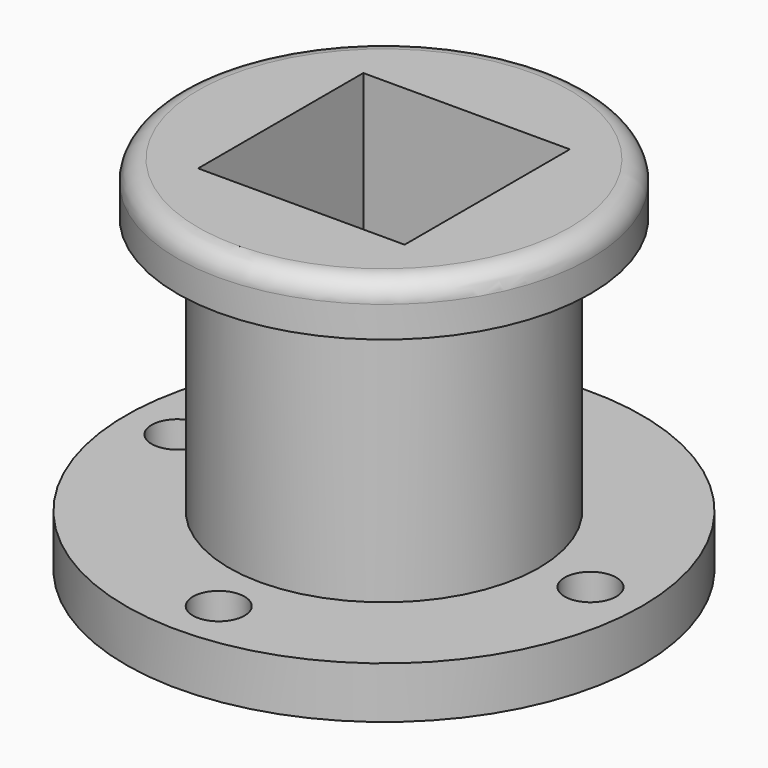
from build123d import *

# Parameters (mm, degrees)
F0_R      = 38.1
F1_DEPTH  = 63.5
F2_R      = 63.5
F3_DEPTH  = 12.7
F4_R      = 6.35
F5_DEPTH  = 25.4
F6_R      = 50.8
F7_DEPTH  = 12.7
F8_R      = 5.08
F9_W      = 50.8
F9_H      = 50.8
F10_DEPTH = 132.842


with BuildPart() as f1:
    # F0 (on Top) → F1 (new body)
    with BuildSketch(Plane.XY):
        Circle(F0_R)
    extrude(amount=F1_DEPTH)

    # F2 (on Top) → F3 (join)
    with BuildSketch(Plane.XY):
        Circle(F2_R)
    extrude(amount=-F3_DEPTH)

    # F4 (on face) → F5 (cut)
    with BuildSketch(Plane.XY):
        with Locations((-50.8, 0)):
            Circle(F4_R)
        with Locations((0, 50.8)):
            Circle(F4_R)
        with Locations((50.8, 0)):
            Circle(F4_R)
        with Locations((0, -50.8)):
            Circle(F4_R)
    extrude(amount=-F5_DEPTH, mode=Mode.SUBTRACT)

    # F6 (on face) → F7 (join)
    with BuildSketch(Plane.XY.offset(63.5)):
        Circle(F6_R)
    extrude(amount=F7_DEPTH)

    # F8
    f8_edges = [f1.edges().sort_by_distance(p)[0] for p in [
        (-50.8, 0, 76.2),
    ]]
    fillet(f8_edges, radius=F8_R)

    # F9 (on face) → F10 (cut)
    with BuildSketch(Plane.XY.offset(76.2)):
        Rectangle(F9_W, F9_H)
    extrude(amount=-F10_DEPTH, mode=Mode.SUBTRACT)


solid = f1.part
